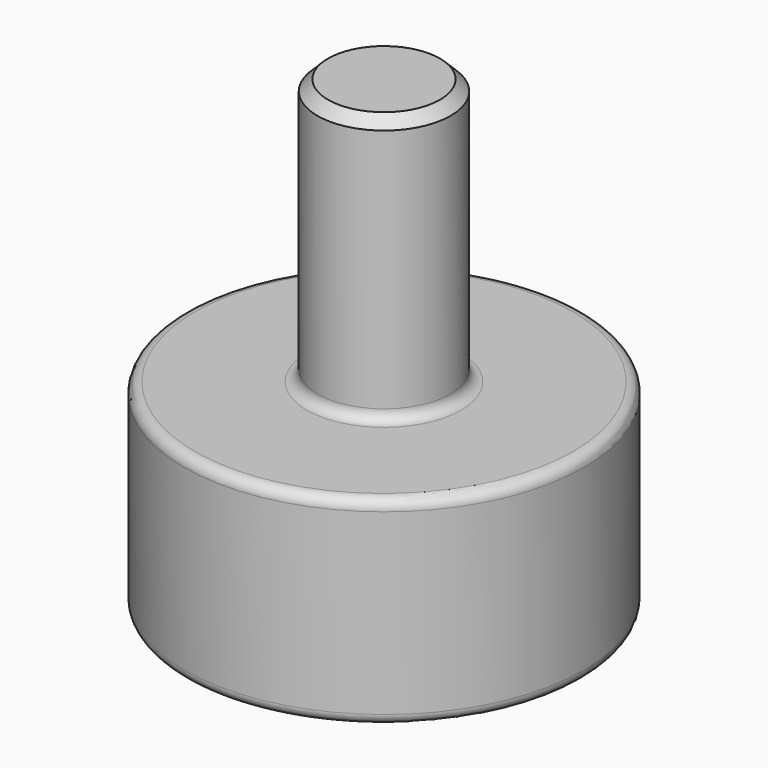
from build123d import *

# Parameters (mm, degrees)
F2_SIZE = 0.508
F3_R    = 0.508


with BuildPart() as f1:
    # F0 (on Front) → F1 (revolve)
    with BuildSketch(Plane.XZ):
        Polygon((0, 22.225), (0, 5.405244), (5.405244, 0), (9.525, 0), (9.525, 9.525), (3.175, 9.525), (3.175, 22.225), align=None)
    revolve(axis=Axis((0, 0, 17.601646), (0, 0, -1)))

    # F2
    f2_edges = [f1.edges().sort_by_distance(p)[0] for p in [
        (-3.175, 0, 22.225),
    ]]
    chamfer(f2_edges, length=F2_SIZE)

    # F3
    f3_edges = [f1.edges().sort_by_distance(p)[0] for p in [
        (-9.525, 0, 9.525),
        (-3.175, 0, 9.525),
        (-9.525, 0, 0),
    ]]
    fillet(f3_edges, radius=F3_R)


solid = f1.part
